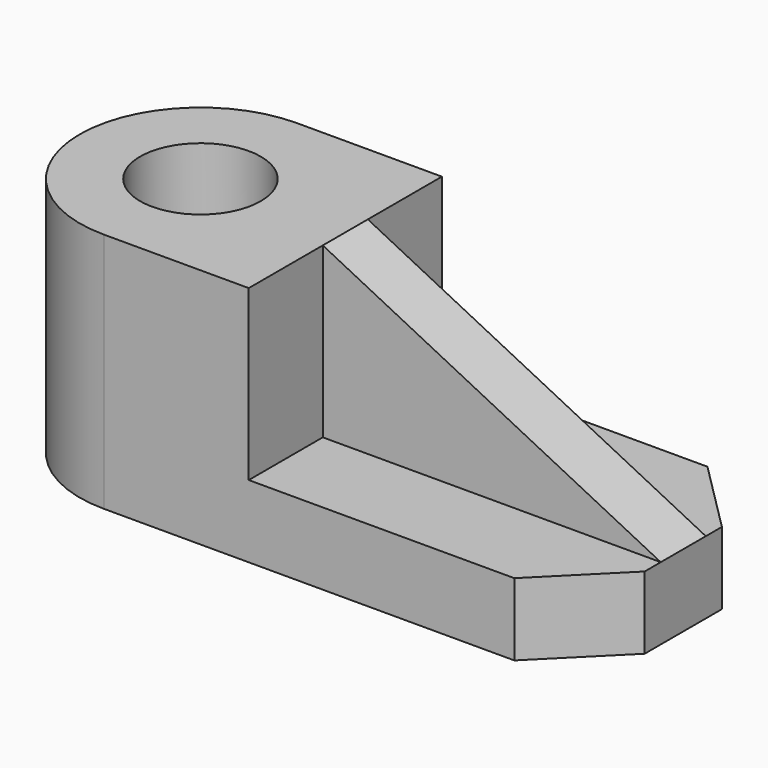
from build123d import *

# Parameters (mm, degrees)
PAD_DEPTH            = 30
SKETCH001_R          = 7.5
POCKET_DEPTH         = 30.001
POCKET001_DEPTH      = 15.001009
POCKET001_DEPTH_BACK = -15.001009
SKETCH003_W          = 42
SKETCH003_H          = 12.5
POCKET002_DEPTH      = 21


with BuildPart() as part:
    # Sketch → Pad (new body)
    with BuildSketch(Plane.XY):
        with BuildLine():
            ThreePointArc((-29.999981, 15.000009), (-44.999994, 9e-06), (-30, -15.000009))
            Line((21, -15.000009), (-30, -15.000009))
            Line((30, -6.000009), (21, -15.000009))
            Line((30, 5.999991), (30, -6.000009))
            Line((21.000019, 15.000009), (30, 5.999991))
            Line((-29.999981, 15.000009), (21.000019, 15.000009))
        make_face()
    extrude(amount=PAD_DEPTH)

    # Sketch001 → Pocket (cut, through all)
    with BuildSketch(Plane.XY):
        with Locations((-30, 0)):
            Circle(SKETCH001_R)
    extrude(amount=POCKET_DEPTH, mode=Mode.SUBTRACT)

    # Sketch002 → Pocket001 (cut, two sides)
    with BuildSketch(Plane.XZ) as pocket001_sk:
        Polygon((-12, 30), (30, 30), (30, 9), align=None)
    extrude(amount=-POCKET001_DEPTH, mode=Mode.SUBTRACT)
    extrude(pocket001_sk.sketch, amount=-POCKET001_DEPTH_BACK, mode=Mode.SUBTRACT)

    # Sketch003 (on DatumPlane) → Pocket002 (cut)
    with BuildSketch(Plane.XY.offset(30)):
        with Locations((9, 9.75)):
            Rectangle(SKETCH003_W, SKETCH003_H)
        with Locations((9, -9.75)):
            Rectangle(SKETCH003_W, SKETCH003_H)
    extrude(amount=-POCKET002_DEPTH, mode=Mode.SUBTRACT)


solid = part.part
